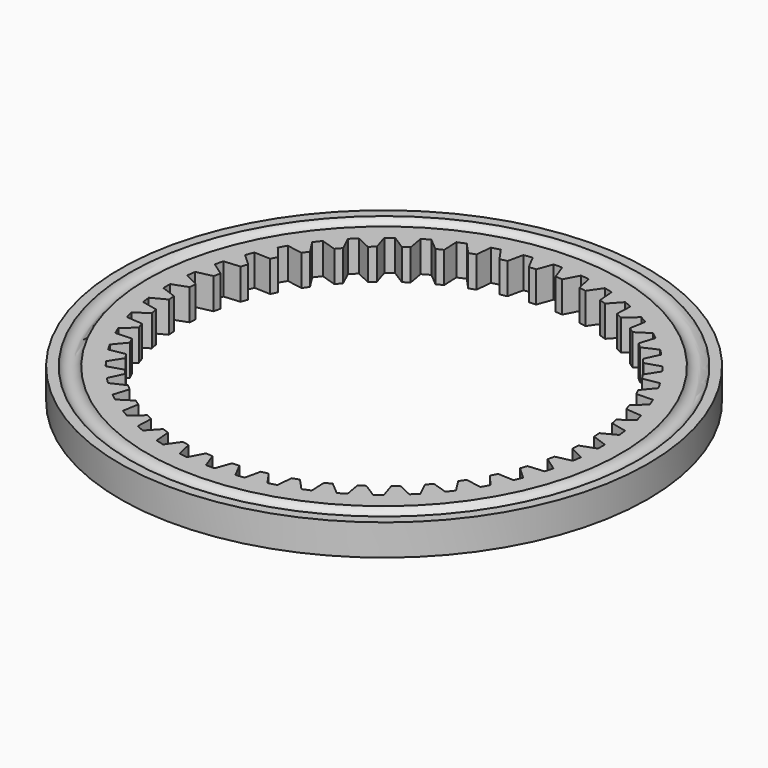
from build123d import *

# Parameters (mm, degrees)
F0_R     = 42.5
F1_DEPTH = 5
F2_R     = 1.5


with BuildPart() as f1:
    # F0 (on Top) → F1 (new body)
    with BuildSketch(Plane.XY):
        Circle(F0_R)
        with BuildLine():
            ThreePointArc((-2.692853, 32.488591), (-2.132142, 32.530201), (-1.570796, 32.562134))
            Line((-1.570796, 32.562134), (-0.685932, 34.993278))
            ThreePointArc((-0.685932, 34.993278), (0, 35), (0.685932, 34.993278))
            Line((0.685932, 34.993278), (1.570796, 32.562134))
            ThreePointArc((1.570796, 32.562134), (2.132142, 32.530201), (2.692853, 32.488591))
            Line((2.692853, 32.488591), (3.887475, 34.783438))
            ThreePointArc((3.887475, 34.783438), (4.568417, 34.70057), (5.247604, 34.604373))
            Line((5.247604, 34.604373), (5.807569, 32.078531))
            ThreePointArc((5.807569, 32.078531), (6.359944, 31.9736), (6.910428, 31.859159))
            Line((6.910428, 31.859159), (8.394367, 33.978443))
            ThreePointArc((8.394367, 33.978443), (9.058667, 33.807404), (9.719487, 33.623378))
            Line((9.719487, 33.623378), (9.944973, 31.046055))
            ThreePointArc((9.944973, 31.046055), (10.478927, 30.869922), (11.009763, 30.684607))
            Line((11.009763, 30.684607), (12.757629, 32.592068))
            ThreePointArc((12.757629, 32.592068), (13.39392, 32.335784), (14.025067, 32.067078))
            Line((14.025067, 32.067078), (13.912216, 29.482372))
            ThreePointArc((13.912216, 29.482372), (14.418611, 29.238051), (14.920718, 28.985034))
            Line((14.920718, 28.985034), (16.902604, 30.648034))
            ThreePointArc((16.902604, 30.648034), (17.5, 30.310889), (18.090674, 29.962101))
            Line((18.090674, 29.962101), (17.641417, 27.414237))
            ThreePointArc((17.641417, 27.414237), (18.11159, 27.105909), (18.576375, 26.789518))
            Line((18.576375, 26.789518), (20.758371, 28.179603))
            ThreePointArc((20.758371, 28.179603), (21.30665, 27.767367), (21.846745, 27.344465))
            Line((21.846745, 27.344465), (21.068768, 24.877038))
            ThreePointArc((21.068768, 24.877038), (21.494674, 24.509978), (21.914185, 24.135627))
            Line((21.914185, 24.135627), (24.258957, 25.229012))
            ThreePointArc((24.258957, 25.229012), (24.748737, 24.748737), (25.229012, 24.258957))
            Line((25.229012, 24.258957), (24.135627, 21.914185))
            ThreePointArc((24.135627, 21.914185), (24.509978, 21.494674), (24.877038, 21.068768))
            Line((24.877038, 21.068768), (27.344465, 21.846745))
            ThreePointArc((27.344465, 21.846745), (27.767367, 21.30665), (28.179603, 20.758371))
            Line((28.179603, 20.758371), (26.789518, 18.576375))
            ThreePointArc((26.789518, 18.576375), (27.105909, 18.11159), (27.414237, 17.641417))
            Line((27.414237, 17.641417), (29.962101, 18.090674))
            ThreePointArc((29.962101, 18.090674), (30.310889, 17.5), (30.648034, 16.902604))
            Line((30.648034, 16.902604), (28.985034, 14.920718))
            ThreePointArc((28.985034, 14.920718), (29.238051, 14.418611), (29.482372, 13.912216))
            Line((29.482372, 13.912216), (32.067078, 14.025067))
            ThreePointArc((32.067078, 14.025067), (32.335784, 13.39392), (32.592068, 12.757629))
            Line((32.592068, 12.757629), (30.684607, 11.009763))
            ThreePointArc((30.684607, 11.009763), (30.869922, 10.478927), (31.046055, 9.944973))
            Line((31.046055, 9.944973), (33.623378, 9.719487))
            ThreePointArc((33.623378, 9.719487), (33.807404, 9.058667), (33.978443, 8.394367))
            Line((33.978443, 8.394367), (31.859159, 6.910428))
            ThreePointArc((31.859159, 6.910428), (31.9736, 6.359944), (32.078531, 5.807569))
            Line((32.078531, 5.807569), (34.604373, 5.247604))
            ThreePointArc((34.604373, 5.247604), (34.70057, 4.568417), (34.783438, 3.887475))
            Line((34.783438, 3.887475), (32.488591, 2.692853))
            ThreePointArc((32.488591, 2.692853), (32.530201, 2.132142), (32.562134, 1.570796))
            Line((32.562134, 1.570796), (34.993278, 0.685932))
            ThreePointArc((34.993278, 0.685932), (35, 0), (34.993278, -0.685932))
            Line((34.993278, -0.685932), (32.562134, -1.570796))
            ThreePointArc((32.562134, -1.570796), (32.530201, -2.132142), (32.488591, -2.692853))
            Line((32.488591, -2.692853), (34.783438, -3.887475))
            ThreePointArc((34.783438, -3.887475), (34.70057, -4.568417), (34.604373, -5.247604))
            Line((34.604373, -5.247604), (32.078531, -5.807569))
            ThreePointArc((32.078531, -5.807569), (31.9736, -6.359944), (31.859159, -6.910428))
            Line((31.859159, -6.910428), (33.978443, -8.394367))
            ThreePointArc((33.978443, -8.394367), (33.807404, -9.058667), (33.623378, -9.719487))
            Line((33.623378, -9.719487), (31.046055, -9.944973))
            ThreePointArc((31.046055, -9.944973), (30.869922, -10.478927), (30.684607, -11.009763))
            Line((30.684607, -11.009763), (32.592068, -12.757629))
            ThreePointArc((32.592068, -12.757629), (32.335784, -13.39392), (32.067078, -14.025067))
            Line((32.067078, -14.025067), (29.482372, -13.912216))
            ThreePointArc((29.482372, -13.912216), (29.238051, -14.418611), (28.985034, -14.920718))
            Line((28.985034, -14.920718), (30.648034, -16.902604))
            ThreePointArc((30.648034, -16.902604), (30.310889, -17.5), (29.962101, -18.090674))
            Line((29.962101, -18.090674), (27.414237, -17.641417))
            ThreePointArc((27.414237, -17.641417), (27.105909, -18.11159), (26.789518, -18.576375))
            Line((26.789518, -18.576375), (28.179603, -20.758371))
            ThreePointArc((28.179603, -20.758371), (27.767367, -21.30665), (27.344465, -21.846745))
            Line((27.344465, -21.846745), (24.877038, -21.068768))
            ThreePointArc((24.877038, -21.068768), (24.509978, -21.494674), (24.135627, -21.914185))
            Line((24.135627, -21.914185), (25.229012, -24.258957))
            ThreePointArc((25.229012, -24.258957), (24.748737, -24.748737), (24.258957, -25.229012))
            Line((24.258957, -25.229012), (21.914185, -24.135627))
            ThreePointArc((21.914185, -24.135627), (21.494674, -24.509978), (21.068768, -24.877038))
            Line((21.068768, -24.877038), (21.846745, -27.344465))
            ThreePointArc((21.846745, -27.344465), (21.30665, -27.767367), (20.758371, -28.179603))
            Line((20.758371, -28.179603), (18.576375, -26.789518))
            ThreePointArc((18.576375, -26.789518), (18.11159, -27.105909), (17.641417, -27.414237))
            Line((17.641417, -27.414237), (18.090674, -29.962101))
            ThreePointArc((18.090674, -29.962101), (17.5, -30.310889), (16.902604, -30.648034))
            Line((16.902604, -30.648034), (14.920718, -28.985034))
            ThreePointArc((14.920718, -28.985034), (14.418611, -29.238051), (13.912216, -29.482372))
            Line((13.912216, -29.482372), (14.025067, -32.067078))
            ThreePointArc((14.025067, -32.067078), (13.39392, -32.335784), (12.757629, -32.592068))
            Line((12.757629, -32.592068), (11.009763, -30.684607))
            ThreePointArc((11.009763, -30.684607), (10.478927, -30.869922), (9.944973, -31.046055))
            Line((9.944973, -31.046055), (9.719487, -33.623378))
            ThreePointArc((9.719487, -33.623378), (9.058667, -33.807404), (8.394367, -33.978443))
            Line((8.394367, -33.978443), (6.910428, -31.859159))
            ThreePointArc((6.910428, -31.859159), (6.359944, -31.9736), (5.807569, -32.078531))
            Line((5.807569, -32.078531), (5.247604, -34.604373))
            ThreePointArc((5.247604, -34.604373), (4.568417, -34.70057), (3.887475, -34.783438))
            Line((3.887475, -34.783438), (2.692853, -32.488591))
            ThreePointArc((2.692853, -32.488591), (2.132142, -32.530201), (1.570796, -32.562134))
            Line((1.570796, -32.562134), (0.685932, -34.993278))
            ThreePointArc((0.685932, -34.993278), (0, -35), (-0.685932, -34.993278))
            Line((-0.685932, -34.993278), (-1.570796, -32.562134))
            ThreePointArc((-1.570796, -32.562134), (-2.132142, -32.530201), (-2.692853, -32.488591))
            Line((-2.692853, -32.488591), (-3.887475, -34.783438))
            ThreePointArc((-3.887475, -34.783438), (-4.568417, -34.70057), (-5.247604, -34.604373))
            Line((-5.247604, -34.604373), (-5.807569, -32.078531))
            ThreePointArc((-5.807569, -32.078531), (-6.359944, -31.9736), (-6.910428, -31.859159))
            Line((-6.910428, -31.859159), (-8.394367, -33.978443))
            ThreePointArc((-8.394367, -33.978443), (-9.058667, -33.807404), (-9.719487, -33.623378))
            Line((-9.719487, -33.623378), (-9.944973, -31.046055))
            ThreePointArc((-9.944973, -31.046055), (-10.478927, -30.869922), (-11.009763, -30.684607))
            Line((-11.009763, -30.684607), (-12.757629, -32.592068))
            ThreePointArc((-12.757629, -32.592068), (-13.39392, -32.335784), (-14.025067, -32.067078))
            Line((-14.025067, -32.067078), (-13.912216, -29.482372))
            ThreePointArc((-13.912216, -29.482372), (-14.418611, -29.238051), (-14.920718, -28.985034))
            Line((-14.920718, -28.985034), (-16.902604, -30.648034))
            ThreePointArc((-16.902604, -30.648034), (-17.5, -30.310889), (-18.090674, -29.962101))
            Line((-18.090674, -29.962101), (-17.641417, -27.414237))
            ThreePointArc((-17.641417, -27.414237), (-18.11159, -27.105909), (-18.576375, -26.789518))
            Line((-18.576375, -26.789518), (-20.758371, -28.179603))
            ThreePointArc((-20.758371, -28.179603), (-21.30665, -27.767367), (-21.846745, -27.344465))
            Line((-21.846745, -27.344465), (-21.068768, -24.877038))
            ThreePointArc((-21.068768, -24.877038), (-21.494674, -24.509978), (-21.914185, -24.135627))
            Line((-21.914185, -24.135627), (-24.258957, -25.229012))
            ThreePointArc((-24.258957, -25.229012), (-24.748737, -24.748737), (-25.229012, -24.258957))
            Line((-25.229012, -24.258957), (-24.135627, -21.914185))
            ThreePointArc((-24.135627, -21.914185), (-24.509978, -21.494674), (-24.877038, -21.068768))
            Line((-24.877038, -21.068768), (-27.344465, -21.846745))
            ThreePointArc((-27.344465, -21.846745), (-27.767367, -21.30665), (-28.179603, -20.758371))
            Line((-28.179603, -20.758371), (-26.789518, -18.576375))
            ThreePointArc((-26.789518, -18.576375), (-27.105909, -18.11159), (-27.414237, -17.641417))
            Line((-27.414237, -17.641417), (-29.962101, -18.090674))
            ThreePointArc((-29.962101, -18.090674), (-30.310889, -17.5), (-30.648034, -16.902604))
            Line((-30.648034, -16.902604), (-28.985034, -14.920718))
            ThreePointArc((-28.985034, -14.920718), (-29.238051, -14.418611), (-29.482372, -13.912216))
            Line((-29.482372, -13.912216), (-32.067078, -14.025067))
            ThreePointArc((-32.067078, -14.025067), (-32.335784, -13.39392), (-32.592068, -12.757629))
            Line((-32.592068, -12.757629), (-30.684607, -11.009763))
            ThreePointArc((-30.684607, -11.009763), (-30.869922, -10.478927), (-31.046055, -9.944973))
            Line((-31.046055, -9.944973), (-33.623378, -9.719487))
            ThreePointArc((-33.623378, -9.719487), (-33.807404, -9.058667), (-33.978443, -8.394367))
            Line((-33.978443, -8.394367), (-31.859159, -6.910428))
            ThreePointArc((-31.859159, -6.910428), (-31.9736, -6.359944), (-32.078531, -5.807569))
            Line((-32.078531, -5.807569), (-34.604373, -5.247604))
            ThreePointArc((-34.604373, -5.247604), (-34.70057, -4.568417), (-34.783438, -3.887475))
            Line((-34.783438, -3.887475), (-32.488591, -2.692853))
            ThreePointArc((-32.488591, -2.692853), (-32.530201, -2.132142), (-32.562134, -1.570796))
            Line((-32.562134, -1.570796), (-34.993278, -0.685932))
            ThreePointArc((-34.993278, -0.685932), (-35, 0), (-34.993278, 0.685932))
            Line((-34.993278, 0.685932), (-32.562134, 1.570796))
            ThreePointArc((-32.562134, 1.570796), (-32.530201, 2.132142), (-32.488591, 2.692853))
            Line((-32.488591, 2.692853), (-34.783438, 3.887475))
            ThreePointArc((-34.783438, 3.887475), (-34.70057, 4.568417), (-34.604373, 5.247604))
            Line((-34.604373, 5.247604), (-32.078531, 5.807569))
            ThreePointArc((-32.078531, 5.807569), (-31.9736, 6.359944), (-31.859159, 6.910428))
            Line((-31.859159, 6.910428), (-33.978443, 8.394367))
            ThreePointArc((-33.978443, 8.394367), (-33.807404, 9.058667), (-33.623378, 9.719487))
            Line((-33.623378, 9.719487), (-31.046055, 9.944973))
            ThreePointArc((-31.046055, 9.944973), (-30.869922, 10.478927), (-30.684607, 11.009763))
            Line((-30.684607, 11.009763), (-32.592068, 12.757629))
            ThreePointArc((-32.592068, 12.757629), (-32.335784, 13.39392), (-32.067078, 14.025067))
            Line((-32.067078, 14.025067), (-29.482372, 13.912216))
            ThreePointArc((-29.482372, 13.912216), (-29.238051, 14.418611), (-28.985034, 14.920718))
            Line((-28.985034, 14.920718), (-30.648034, 16.902604))
            ThreePointArc((-30.648034, 16.902604), (-30.310889, 17.5), (-29.962101, 18.090674))
            Line((-29.962101, 18.090674), (-27.414237, 17.641417))
            ThreePointArc((-27.414237, 17.641417), (-27.105909, 18.11159), (-26.789518, 18.576375))
            Line((-26.789518, 18.576375), (-28.179603, 20.758371))
            ThreePointArc((-28.179603, 20.758371), (-27.767367, 21.30665), (-27.344465, 21.846745))
            Line((-27.344465, 21.846745), (-24.877038, 21.068768))
            ThreePointArc((-24.877038, 21.068768), (-24.509978, 21.494674), (-24.135627, 21.914185))
            Line((-24.135627, 21.914185), (-25.229012, 24.258957))
            ThreePointArc((-25.229012, 24.258957), (-24.748737, 24.748737), (-24.258957, 25.229012))
            Line((-24.258957, 25.229012), (-21.914185, 24.135627))
            ThreePointArc((-21.914185, 24.135627), (-21.494674, 24.509978), (-21.068768, 24.877038))
            Line((-21.068768, 24.877038), (-21.846745, 27.344465))
            ThreePointArc((-21.846745, 27.344465), (-21.30665, 27.767367), (-20.758371, 28.179603))
            Line((-20.758371, 28.179603), (-18.576375, 26.789518))
            ThreePointArc((-18.576375, 26.789518), (-18.11159, 27.105909), (-17.641417, 27.414237))
            Line((-17.641417, 27.414237), (-18.090674, 29.962101))
            ThreePointArc((-18.090674, 29.962101), (-17.5, 30.310889), (-16.902604, 30.648034))
            Line((-16.902604, 30.648034), (-14.920718, 28.985034))
            ThreePointArc((-14.920718, 28.985034), (-14.418611, 29.238051), (-13.912216, 29.482372))
            Line((-13.912216, 29.482372), (-14.025067, 32.067078))
            ThreePointArc((-14.025067, 32.067078), (-13.39392, 32.335784), (-12.757629, 32.592068))
            Line((-12.757629, 32.592068), (-11.009763, 30.684607))
            ThreePointArc((-11.009763, 30.684607), (-10.478927, 30.869922), (-9.944973, 31.046055))
            Line((-9.944973, 31.046055), (-9.719487, 33.623378))
            ThreePointArc((-9.719487, 33.623378), (-9.058667, 33.807404), (-8.394367, 33.978443))
            Line((-8.394367, 33.978443), (-6.910428, 31.859159))
            ThreePointArc((-6.910428, 31.859159), (-6.359944, 31.9736), (-5.807569, 32.078531))
            Line((-5.807569, 32.078531), (-5.247604, 34.604373))
            ThreePointArc((-5.247604, 34.604373), (-4.568417, 34.70057), (-3.887475, 34.783438))
            Line((-3.887475, 34.783438), (-2.692853, 32.488591))
        make_face(mode=Mode.SUBTRACT)
    extrude(amount=F1_DEPTH)

    # F2 (on Front) → F3 (revolve, cut)
    with BuildSketch(Plane.XZ):
        with Locations((-39.5, 5.5)):
            Circle(F2_R)
        with Locations((-39.5, -0.5)):
            Circle(F2_R)
    revolve(axis=Axis((0, 0, 5), (0, 0, 1)), mode=Mode.SUBTRACT)


solid = f1.part
